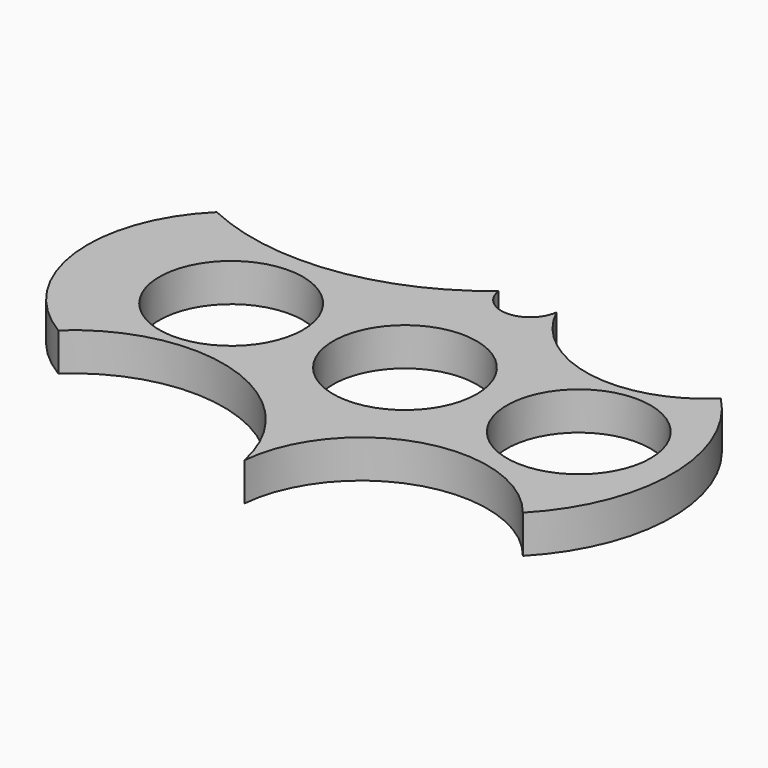
from build123d import *

# Parameters (mm, degrees)
F0_R     = 13.2
F1_DEPTH = 7


with BuildPart() as f1:
    # F0 (on Top) → F1 (new body)
    with BuildSketch(Plane.XY):
        with BuildLine():
            ThreePointArc((0, -36.899328), (16.530458, -16.732119), (41.37912, -24.638848))
            ThreePointArc((41.37912, -24.638848), (50.61589, -1.886227), (41.37912, 20.866394))
            ThreePointArc((41.37912, 20.866394), (22.233501, 14.876189), (6.24813, 26.996633))
            ThreePointArc((6.24813, 26.996633), (0.943114, 22.292344), (-4.361901, 26.996633))
            ThreePointArc((-4.361901, 26.996633), (-26.927833, 17.08879), (-51.281814, 20.866394))
            ThreePointArc((-51.281814, 20.866394), (-59.253049, -1.86651), (-46.094686, -22.045286))
            ThreePointArc((-46.094686, -22.045286), (-18.697892, -15.975202), (0, -36.899328))
        make_face()
        with Locations((-31.947982, 0)):
            Circle(F0_R, mode=Mode.SUBTRACT)
        Circle(F0_R, mode=Mode.SUBTRACT)
        with Locations((31.947978, 0)):
            Circle(F0_R, mode=Mode.SUBTRACT)
    extrude(amount=F1_DEPTH)


solid = f1.part
